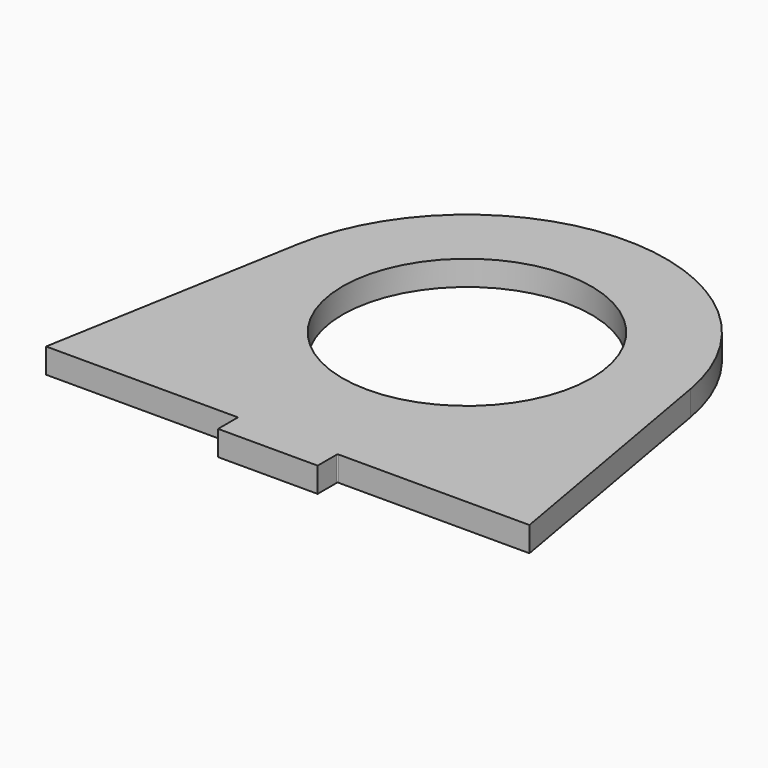
from build123d import *

# Parameters (mm, degrees)
F0_R     = 25
F1_DEPTH = 5


with BuildPart() as f1:
    # F0 (on Top) → F1 (new body)
    with BuildSketch(Plane.XY):
        with BuildLine():
            Line((-39.39231, 51.945927), (-48.551779, 0))
            Line((-48.551779, 0), (-10.2, 0))
            ThreePointArc((-10.2, 0), (-10.058579, -0.058579), (-10, -0.2))
            Line((-10, -0.2), (-10, -5))
            Line((-10, -5), (10, -5))
            Line((10, -5), (10, -0.2))
            ThreePointArc((10, -0.2), (10.058579, -0.058579), (10.2, 0))
            Line((10.2, 0), (48.551779, 0))
            Line((48.551779, 0), (39.39231, 51.945927))
            ThreePointArc((39.39231, 51.945927), (0, 85), (-39.39231, 51.945927))
        make_face()
        with Locations((0, 45)):
            Circle(F0_R, mode=Mode.SUBTRACT)
    extrude(amount=F1_DEPTH)


solid = f1.part
